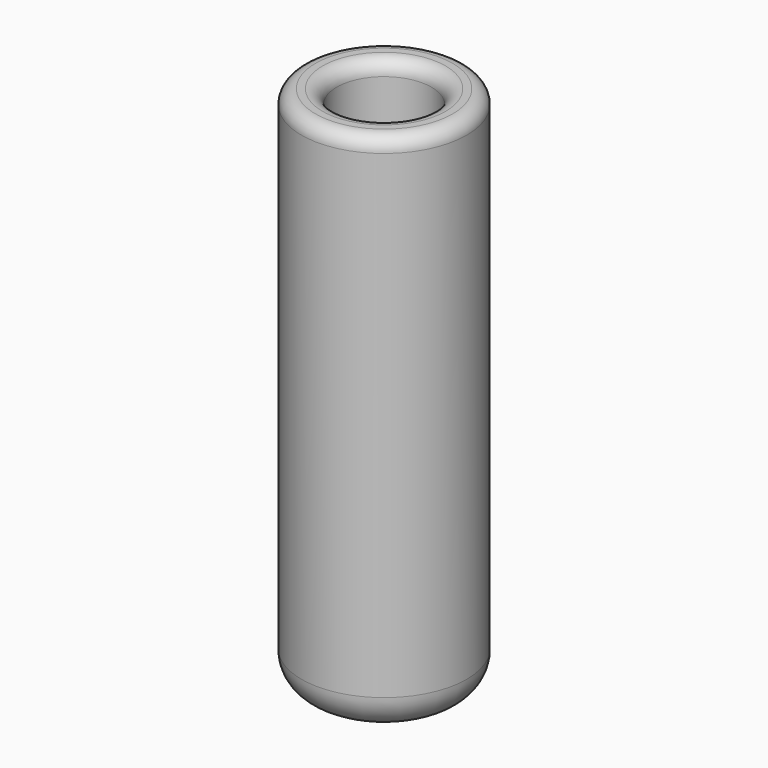
from build123d import *

# Parameters (mm, degrees)
F0_R     = 5.8656239377
F1_DEPTH = 37.5
F2_T     = -2.5
F3_R     = 2.5
F4_R     = 1


with BuildPart() as f1:
    # F0 (on Top) → F1 (new body)
    with BuildSketch(Plane.XY):
        Circle(F0_R)
    extrude(amount=F1_DEPTH)

    # F2
    f2_openings = [f1.faces().sort_by_distance(p)[0] for p in [
        (0, 0, 37.5),
    ]]
    offset(amount=F2_T, openings=f2_openings)

    # F3
    f3_edges = [f1.edges().sort_by_distance(p)[0] for p in [
        (-5.865624, 0, 0),
    ]]
    fillet(f3_edges, radius=F3_R)

    # F4
    f4_edges = [f1.edges().sort_by_distance(p)[0] for p in [
        (-5.865624, 0, 37.5),
        (-3.365624, 0, 37.5),
    ]]
    fillet(f4_edges, radius=F4_R)


solid = f1.part
